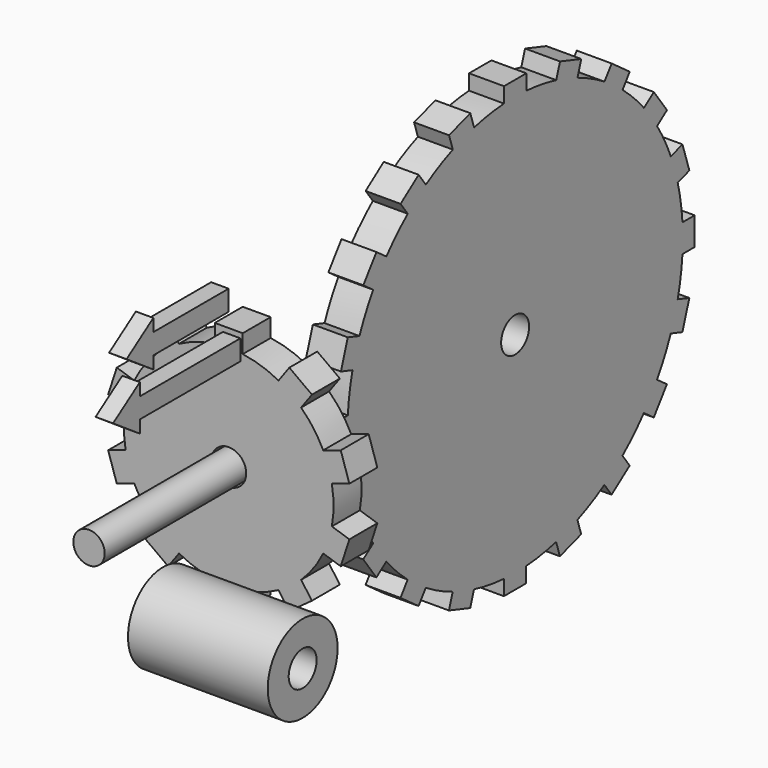
from build123d import *

# Parameters (mm, degrees)
F0_R           = 38.1
F2_DEPTH       = 12.7
F3_COUNT       = 10
F4_D           = 12.7
F6_R           = 76.2
F8_DEPTH       = 12.7
F9_COUNT       = 20
F12_D          = 12.7
F13_R          = 5.715
F14_DEPTH      = 63.5
F14_DEPTH_BACK = 50.8
F15_W          = 34.2290457338
F15_H          = 7.4231624603
F16_DEPTH      = 6.35
F17_R          = 15.875
F18_DEPTH      = 50.8
F20_D          = 12.7
F21_W          = 45.72
F21_H          = 7.366
F22_DEPTH      = 6.35


with BuildPart() as f2:
    # F0 (on Front) → F2 (new body)
    with BuildSketch(Plane.XZ):
        Circle(F0_R)
    extrude(amount=F2_DEPTH)

    # F4 (through all)
    with Locations(Plane(origin=(0, 0, 0), x_dir=(1, 0, 0), z_dir=(0, 1, 0))):
        with Locations((0, 0)):
            Hole(F4_D / 2)


with BuildPart() as f2b:
    # F1 (on face) → F2, piece 2 (new body)
    with BuildSketch(Plane.XZ):
        with BuildLine():
            Line((-5.08, 44.45), (-5.08, 37.7598146182))
            ThreePointArc((-5.08, 37.7598146182), (0, 38.1), (5.08, 37.7598146182))
            Line((5.08, 37.7598146182), (5.08, 44.45))
            Line((5.08, 44.45), (-5.08, 44.45))
        make_face()
    extrude(amount=F2_DEPTH)


with BuildPart() as f3_1:
    # F3: instance of F2b
    add(f2b.part.rotate(Axis((0, 0, 0), (0, -1, 0)), 1 * 360 / F3_COUNT))


with BuildPart() as f3_2:
    # F3: instance of F2b
    add(f2b.part.rotate(Axis((0, 0, 0), (0, -1, 0)), 2 * 360 / F3_COUNT))


with BuildPart() as f3_3:
    # F3: instance of F2b
    add(f2b.part.rotate(Axis((0, 0, 0), (0, -1, 0)), 3 * 360 / F3_COUNT))


with BuildPart() as f3_4:
    # F3: instance of F2b
    add(f2b.part.rotate(Axis((0, 0, 0), (0, -1, 0)), 4 * 360 / F3_COUNT))


with BuildPart() as f3_5:
    # F3: instance of F2b
    add(f2b.part.rotate(Axis((0, 0, 0), (0, -1, 0)), 5 * 360 / F3_COUNT))


with BuildPart() as f3_6:
    # F3: instance of F2b
    add(f2b.part.rotate(Axis((0, 0, 0), (0, -1, 0)), 6 * 360 / F3_COUNT))


with BuildPart() as f3_7:
    # F3: instance of F2b
    add(f2b.part.rotate(Axis((0, 0, 0), (0, -1, 0)), 7 * 360 / F3_COUNT))


with BuildPart() as f3_8:
    # F3: instance of F2b
    add(f2b.part.rotate(Axis((0, 0, 0), (0, -1, 0)), 8 * 360 / F3_COUNT))


with BuildPart() as f3_9:
    # F3: instance of F2b
    add(f2b.part.rotate(Axis((0, 0, 0), (0, -1, 0)), 9 * 360 / F3_COUNT))


with BuildPart() as f2b_1:
    add(f2b.part)

    # F5: union F3_2, F3_1, F3_3, F3_4, F3_5, F3_6, F3_7, F3_8, F3_9, F2
    add(f3_2.part)
    add(f3_1.part)
    add(f3_3.part)
    add(f3_4.part)
    add(f3_5.part)
    add(f3_6.part)
    add(f3_7.part)
    add(f3_8.part)
    add(f3_9.part)
    add(f2.part)


with BuildPart() as f8:
    # F6 (on Right) → F8 (new body)
    with BuildSketch(Plane.YZ):
        with Locations((101.5440017082, 0)):
            Circle(F6_R)
    extrude(amount=F8_DEPTH)


with BuildPart() as f8b:
    # F7 (on face) → F8, piece 2 (new body)
    with BuildSketch(Plane.YZ):
        with BuildLine():
            Line((96.4895019979, 81.5958976746), (96.4895019979, 76.0321776137))
            ThreePointArc((96.4895019979, 76.0321776137), (101.5695588549, 76.1999957141), (106.6495019979, 76.0287699939))
            Line((106.6495019979, 76.0287699939), (106.6495019979, 81.5958976746))
            Line((106.6495019979, 81.5958976746), (96.4895019979, 81.5958976746))
        make_face()
    extrude(amount=F8_DEPTH)


with BuildPart() as f9_1:
    # F9: instance of F8b
    add(f8b.part.rotate(Axis((12.7, 101.5440017082, 0), (1, 0, 0)), 1 * 360 / F9_COUNT))


with BuildPart() as f9_2:
    # F9: instance of F8b
    add(f8b.part.rotate(Axis((12.7, 101.5440017082, 0), (1, 0, 0)), 2 * 360 / F9_COUNT))


with BuildPart() as f9_3:
    # F9: instance of F8b
    add(f8b.part.rotate(Axis((12.7, 101.5440017082, 0), (1, 0, 0)), 3 * 360 / F9_COUNT))


with BuildPart() as f9_4:
    # F9: instance of F8b
    add(f8b.part.rotate(Axis((12.7, 101.5440017082, 0), (1, 0, 0)), 4 * 360 / F9_COUNT))


with BuildPart() as f9_5:
    # F9: instance of F8b
    add(f8b.part.rotate(Axis((12.7, 101.5440017082, 0), (1, 0, 0)), 5 * 360 / F9_COUNT))


with BuildPart() as f9_6:
    # F9: instance of F8b
    add(f8b.part.rotate(Axis((12.7, 101.5440017082, 0), (1, 0, 0)), 6 * 360 / F9_COUNT))


with BuildPart() as f9_7:
    # F9: instance of F8b
    add(f8b.part.rotate(Axis((12.7, 101.5440017082, 0), (1, 0, 0)), 7 * 360 / F9_COUNT))


with BuildPart() as f9_8:
    # F9: instance of F8b
    add(f8b.part.rotate(Axis((12.7, 101.5440017082, 0), (1, 0, 0)), 8 * 360 / F9_COUNT))


with BuildPart() as f9_9:
    # F9: instance of F8b
    add(f8b.part.rotate(Axis((12.7, 101.5440017082, 0), (1, 0, 0)), 9 * 360 / F9_COUNT))


with BuildPart() as f9_10:
    # F9: instance of F8b
    add(f8b.part.rotate(Axis((12.7, 101.5440017082, 0), (1, 0, 0)), 10 * 360 / F9_COUNT))


with BuildPart() as f9_11:
    # F9: instance of F8b
    add(f8b.part.rotate(Axis((12.7, 101.5440017082, 0), (1, 0, 0)), 11 * 360 / F9_COUNT))


with BuildPart() as f9_12:
    # F9: instance of F8b
    add(f8b.part.rotate(Axis((12.7, 101.5440017082, 0), (1, 0, 0)), 12 * 360 / F9_COUNT))


with BuildPart() as f9_13:
    # F9: instance of F8b
    add(f8b.part.rotate(Axis((12.7, 101.5440017082, 0), (1, 0, 0)), 13 * 360 / F9_COUNT))


with BuildPart() as f9_14:
    # F9: instance of F8b
    add(f8b.part.rotate(Axis((12.7, 101.5440017082, 0), (1, 0, 0)), 14 * 360 / F9_COUNT))


with BuildPart() as f9_15:
    # F9: instance of F8b
    add(f8b.part.rotate(Axis((12.7, 101.5440017082, 0), (1, 0, 0)), 15 * 360 / F9_COUNT))


with BuildPart() as f9_16:
    # F9: instance of F8b
    add(f8b.part.rotate(Axis((12.7, 101.5440017082, 0), (1, 0, 0)), 16 * 360 / F9_COUNT))


with BuildPart() as f9_17:
    # F9: instance of F8b
    add(f8b.part.rotate(Axis((12.7, 101.5440017082, 0), (1, 0, 0)), 17 * 360 / F9_COUNT))


with BuildPart() as f9_18:
    # F9: instance of F8b
    add(f8b.part.rotate(Axis((12.7, 101.5440017082, 0), (1, 0, 0)), 18 * 360 / F9_COUNT))


with BuildPart() as f9_19:
    # F9: instance of F8b
    add(f8b.part.rotate(Axis((12.7, 101.5440017082, 0), (1, 0, 0)), 19 * 360 / F9_COUNT))


with BuildPart() as f9_1_1:
    add(f9_1.part)

    # F10: union F9_2, F8, F8b, F9_9, F9_8, F9_7, F9_6, F9_5, F9_4, F9_3, F9_19, F9_18, F9_17, F9_16, F9_15, F9_14, F9_13, F9_12, F9_11, F9_10
    add(f9_2.part)
    add(f8.part)
    add(f8b.part)
    add(f9_9.part)
    add(f9_8.part)
    add(f9_7.part)
    add(f9_6.part)
    add(f9_5.part)
    add(f9_4.part)
    add(f9_3.part)
    add(f9_19.part)
    add(f9_18.part)
    add(f9_17.part)
    add(f9_16.part)
    add(f9_15.part)
    add(f9_14.part)
    add(f9_13.part)
    add(f9_12.part)
    add(f9_11.part)
    add(f9_10.part)

    # F12 (through all)
    with Locations(Plane.YZ.offset(12.7)):
        with Locations((101.5440017082, 0)):
            Hole(F12_D / 2)


with BuildPart() as f14:
    # F13 (on face) → F14 (new body, two sides)
    with BuildSketch(Plane.XZ.offset(12.7)) as f14_sk:
        Circle(F13_R)
    extrude(amount=F14_DEPTH)
    extrude(f14_sk.sketch, amount=-F14_DEPTH_BACK)


with BuildPart() as f16:
    # F15 (on Right) → F16 (new body)
    with BuildSketch(Plane.YZ):
        with Locations((-37.8016689792, 58.6636215448)):
            Rectangle(F15_W, F15_H)
        Polygon((-54.9161918461, 54.9520403147), (-54.9161918461, 62.375202775), (-54.9161918461, 66.921802775), (-67.0819282532, 58.6636215448), (-54.9161918461, 50.4156574607), align=None)
    extrude(amount=F16_DEPTH)


with BuildPart() as f18:
    # F17 (on Right) → F18 (new body)
    with BuildSketch(Plane.YZ):
        with Locations((-42.6187925041, -35.7755310833)):
            Circle(F17_R)
    extrude(amount=F18_DEPTH)

    # F20 (through all)
    with Locations(Plane.YZ.offset(50.8)):
        with Locations((-42.6187925041, -35.7755310833)):
            Hole(F20_D / 2)


with BuildPart() as f22:
    # F21 (on Right) → F22 (new body)
    with BuildSketch(Plane.YZ):
        with Locations((-38.1975783284, 40.621208027)):
            Rectangle(F21_W, F21_H)
        Polygon((-61.0575783284, 36.938208027), (-61.0575783284, 44.304208027), (-61.0575783284, 48.850808027), (-73.2241783284, 40.621208027), (-61.0575783284, 32.391608027), align=None)
    extrude(amount=F22_DEPTH)


solid = Compound([f2b_1.part, f9_1_1.part, f14.part, f16.part, f18.part, f22.part])
